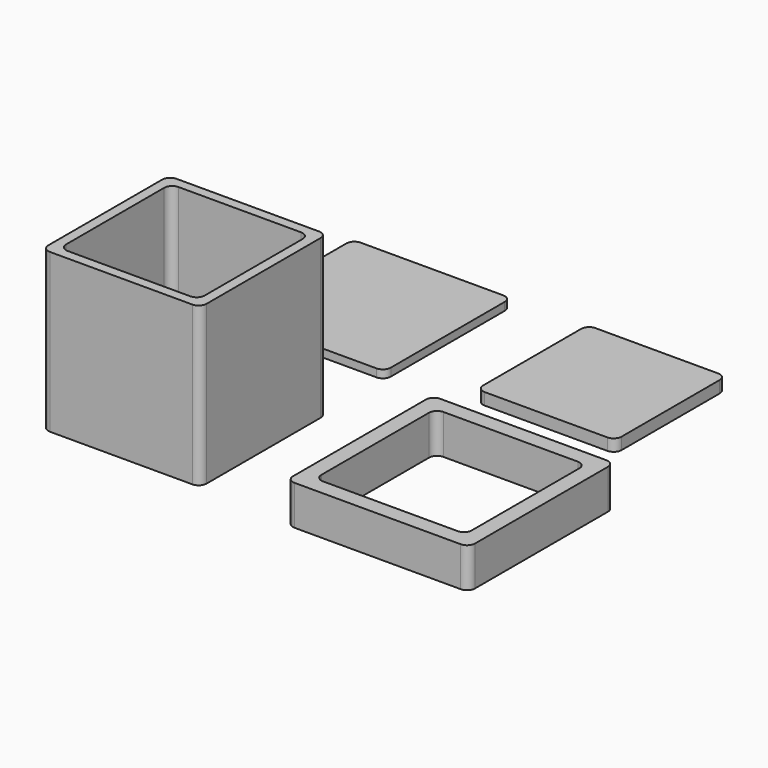
from build123d import *

# Parameters (mm, degrees)
F0_W      = 40.0000037625
F0_H      = 40.0000046939
F1_DEPTH  = 2
F2_R      = 2
F3_W      = 35.0000020117
F3_H      = 34.999998752
F4_DEPTH  = 3
F5_R      = 2
F6_W      = 40.0000028312
F6_H      = 40.0000000373
F7_DEPTH  = 40
F8_T      = -2.5
F9_R      = 2
F10_W     = 46
F10_H     = 46
F11_DEPTH = 10
F12_T     = -4
F13_R     = 2


with BuildPart() as f1:
    # F0 (on Top) → F1 (new body)
    with BuildSketch(Plane.XY):
        with Locations((-29.4642872177, 22.8571454063)):
            Rectangle(F0_W, F0_H)
    extrude(amount=F1_DEPTH)

    # F2
    f2_edges = [f1.edges().sort_by_distance(p)[0] for p in [
        (-49.464289, 2.857143, 1),
        (-9.464285, 2.857143, 1),
        (-9.464285, 42.857148, 1),
        (-49.464289, 42.857148, 1),
    ]]
    fillet(f2_edges, radius=F2_R)


with BuildPart() as f4:
    # F3 (on Top) → F4 (new body)
    with BuildSketch(Plane.XY):
        with Locations((28.2142879441, 24.2857139092)):
            Rectangle(F3_W, F3_H)
    extrude(amount=F4_DEPTH)

    # F5
    f5_edges = [f4.edges().sort_by_distance(p)[0] for p in [
        (10.714287, 6.785715, 1.5),
        (45.714289, 6.785715, 1.5),
        (45.714289, 41.785713, 1.5),
        (10.714287, 41.785713, 1.5),
    ]]
    fillet(f5_edges, radius=F5_R)


with BuildPart() as f7:
    # F6 (on Top) → F7 (new body)
    with BuildSketch(Plane.XY):
        with Locations((-29.2857158929, -35.5357150547)):
            Rectangle(F6_W, F6_H)
    extrude(amount=F7_DEPTH)

    # F8
    f8_openings = [f7.faces().sort_by_distance(p)[0] for p in [
        (-29.285716, -35.535715, 40),
        (-29.285716, -35.535715, 0),
    ]]
    offset(amount=F8_T, openings=f8_openings)

    # F9
    f9_edges = [f7.edges().sort_by_distance(p)[0] for p in [
        (-9.285714, -55.535715, 20),
        (-9.285714, -15.535715, 20),
        (-49.285717, -15.535715, 20),
        (-49.285717, -55.535715, 20),
        (-11.785714, -53.035715, 20),
        (-11.785714, -18.035715, 20),
        (-46.785717, -18.035715, 20),
        (-46.785717, -53.035715, 20),
    ]]
    fillet(f9_edges, radius=F9_R)


with BuildPart() as f11:
    # F10 (on Top) → F11 (new body)
    with BuildSketch(Plane.XY):
        with Locations((37.0588265359, -34.4390756935)):
            Rectangle(F10_W, F10_H)
    extrude(amount=F11_DEPTH)

    # F12
    f12_openings = [f11.faces().sort_by_distance(p)[0] for p in [
        (37.058827, -34.439076, 10),
        (37.058827, -34.439076, 0),
    ]]
    offset(amount=F12_T, openings=f12_openings)

    # F13
    f13_edges = [f11.edges().sort_by_distance(p)[0] for p in [
        (60.058827, -11.439076, 5),
        (14.058827, -57.439076, 5),
        (14.058827, -11.439076, 5),
        (60.058827, -57.439076, 5),
        (18.058827, -53.439076, 5),
        (18.058827, -15.439076, 5),
        (56.058827, -53.439076, 5),
        (56.058827, -15.439076, 5),
    ]]
    fillet(f13_edges, radius=F13_R)


solid = Compound([f1.part, f4.part, f7.part, f11.part])
